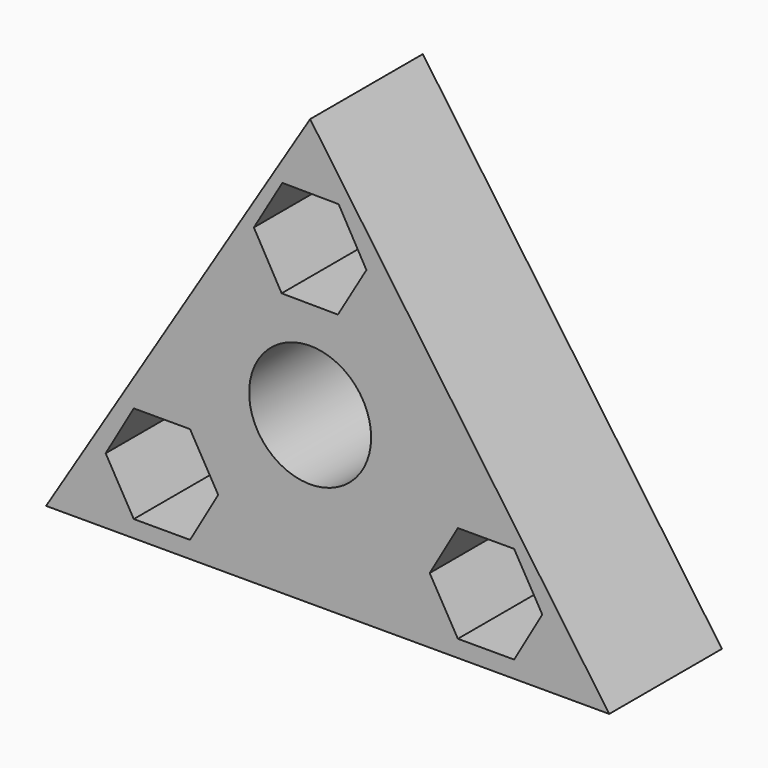
from build123d import *

# Parameters (mm, degrees)
F0_R     = 10.9982
F1_DEPTH = 25.4
F2_DEPTH = 25.4


with BuildPart() as f1:
    # F0 (on Front) → F1 (new body)
    with BuildSketch(Plane.XZ):
        Polygon((53.935591, -11.843004), (0, 65.046959), (-47.61612, -11.843004), align=None)
        Polygon((-16.579071, 0), (-21.653056, -8.7884), (-26.727041, -8.7884), (-31.801026, -8.7884), (-36.875011, 0), (-31.801026, 8.7884), (-21.653056, 8.7884), align=None, mode=Mode.SUBTRACT)
        with Locations((0, 18.063348)):
            Circle(F0_R, mode=Mode.SUBTRACT)
        Polygon((41.860685, 0), (36.7867, -8.7884), (31.712715, -8.7884), (26.638729, -8.7884), (21.564744, 0), (26.638729, 8.7884), (36.7867, 8.7884), align=None, mode=Mode.SUBTRACT)
        Polygon((-5.006142, 53.294326), (5.141528, 53.216161), (10.147669, 44.388939), (5.006142, 35.639882), (-5.141528, 35.718048), (-10.147669, 44.54527), align=None, mode=Mode.SUBTRACT)
    extrude(amount=F1_DEPTH)

    # F0 (on Front) → F2 (join)
    with BuildSketch(Plane.XZ):
        Polygon((53.935591, -11.843004), (0, 65.046959), (-47.61612, -11.843004), align=None)
        Polygon((-16.579071, 0), (-21.653056, -8.7884), (-26.727041, -8.7884), (-31.801026, -8.7884), (-36.875011, 0), (-31.801026, 8.7884), (-21.653056, 8.7884), align=None, mode=Mode.SUBTRACT)
        with Locations((0, 18.063348)):
            Circle(F0_R, mode=Mode.SUBTRACT)
        Polygon((41.860685, 0), (36.7867, -8.7884), (31.712715, -8.7884), (26.638729, -8.7884), (21.564744, 0), (26.638729, 8.7884), (36.7867, 8.7884), align=None, mode=Mode.SUBTRACT)
        Polygon((-5.006142, 53.294326), (5.141528, 53.216161), (10.147669, 44.388939), (5.006142, 35.639882), (-5.141528, 35.718048), (-10.147669, 44.54527), align=None, mode=Mode.SUBTRACT)
    extrude(amount=F2_DEPTH)


solid = f1.part
